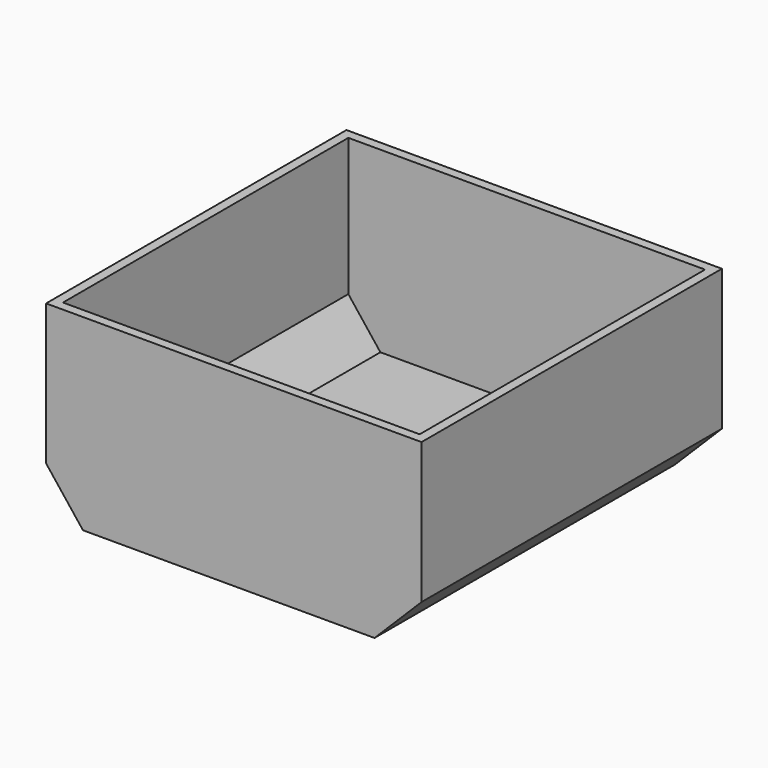
from build123d import *

# Parameters (mm, degrees)
F1_DEPTH = 50.8
F2_T     = -1.27


with BuildPart() as f1:
    # F0 (on Front) → F1 (new body)
    with BuildSketch(Plane.XZ):
        Polygon((-2e-06, 19.05), (-25.400002, 19.05), (-25.400002, 0), (-20.408093, -6.35), (0, -6.35), align=None)
        Polygon((25.399998, 19.05), (-2e-06, 19.05), (0, -6.35), (19.037764, -6.35), (25.399998, 0), align=None)
    extrude(amount=F1_DEPTH)

    # F2
    f2_openings = [f1.faces().sort_by_distance(p)[0] for p in [
        (-2e-06, -25.4, 19.05),
    ]]
    offset(amount=F2_T, openings=f2_openings)


solid = f1.part
